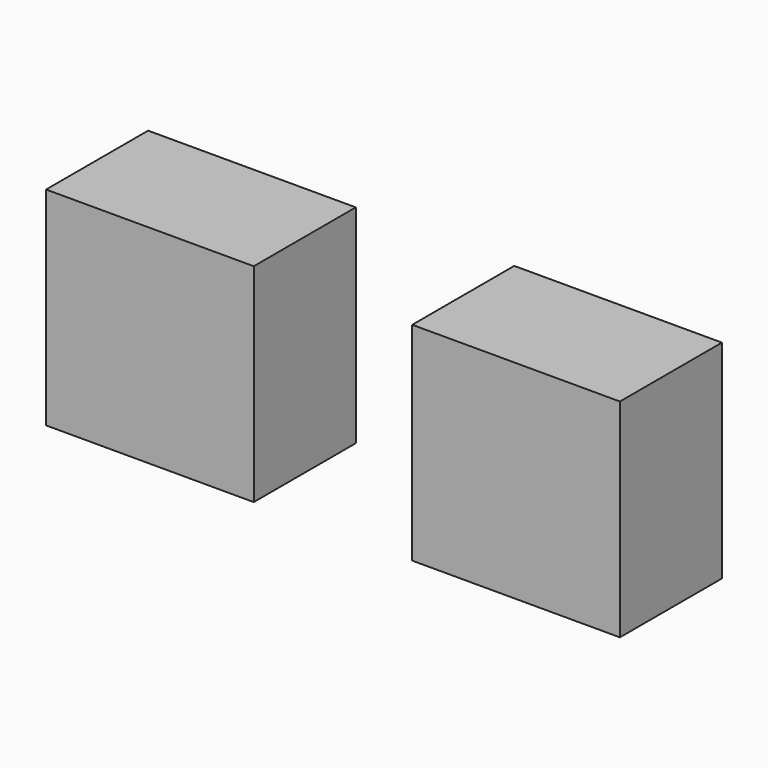
from build123d import *

# Parameters (mm, degrees)
F0_W     = 41.365713
F0_H     = 41.36572
F1_DEPTH = 12.7


with BuildPart() as f1:
    # F0 (on Front) → F1 (new body, symmetric)
    with BuildSketch(Plane.XZ):
        with Locations((-36.467142, 49.530003)):
            Rectangle(F0_W, F0_H)
    extrude(amount=F1_DEPTH, both=True)


with BuildPart() as f2_1:
    # F2: instance of F1
    add(f1.part.mirror(Plane.YZ))


solid = Compound([f1.part, f2_1.part])
